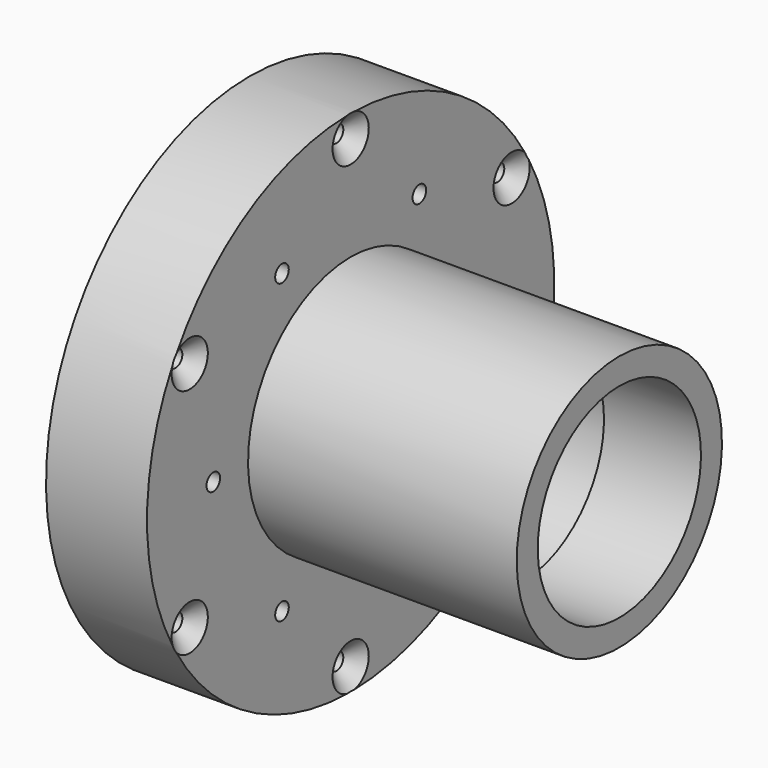
from build123d import *

# Parameters (mm, degrees)
F3_D           = 4.2
F3_CSINK_D     = 11.2
F3_CSINK_ANGLE = 90
F5_D           = 4.2


with BuildPart() as f1:
    # F0 (on Front) → F1 (revolve)
    with BuildSketch(Plane.XZ):
        Polygon((28, 25.25), (52, 25.25), (52, 31.75), (-14.5, 31.75), (-14.5, 63), (-39.5, 63), (-39.5, 39.5), (-24, 39.5), (-24, 25.25), (0, 25.25), (0, 26.25), (28, 26.25), align=None)
    revolve(axis=Axis((7.4011684002, 0, 0), (1, 0, 0)))

    # F3 (through all)
    with Locations(Plane.YZ.offset(-14.5)):
        with Locations((0, 57.5), (49.7964607176, 28.75), (49.7964607176, -28.75), (-49.7964607176, -28.75), (0, -57.5), (-49.7964607176, 28.75)):
            CounterSinkHole(F3_D / 2, F3_CSINK_D / 2, counter_sink_angle=F3_CSINK_ANGLE)

    # F5 (through all)
    with Locations(Plane.YZ.offset(-14.5)):
        with Locations((-21.25, 36.8060796608), (21.25, 36.8060796608), (42.5, 0), (21.25, -36.8060796608), (-21.25, -36.8060796608), (-42.5, 0)):
            Hole(F5_D / 2)


solid = f1.part
